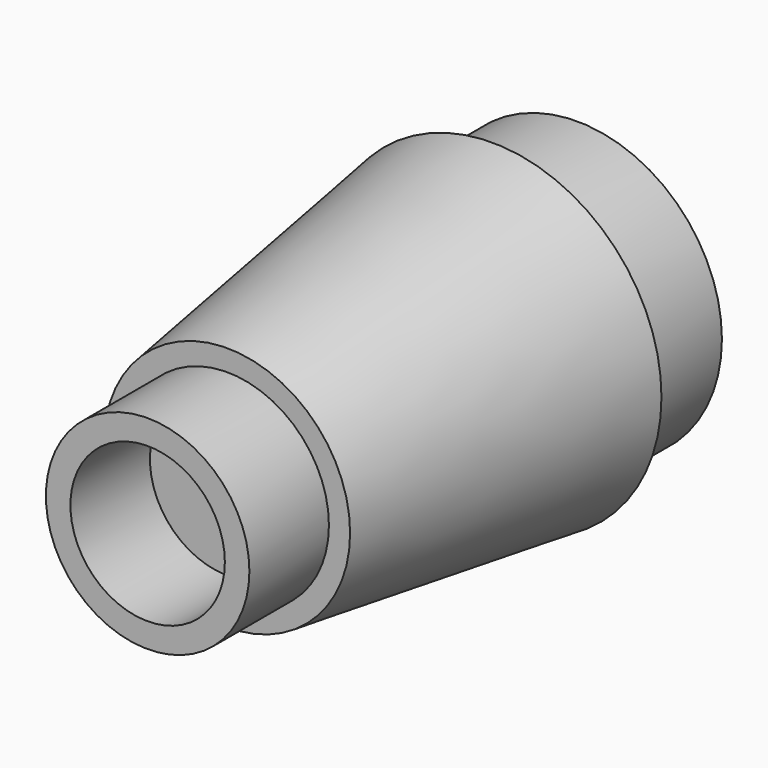
from build123d import *

# Parameters (mm, degrees)
F0_R       = 3.81
F1_DEPTH   = 7.47
F1_FACE1_R = 3.81
F2_R       = 2.77
F4_R       = 3.26
F4_R_2     = 2.49594432
F5_DEPTH   = 2.39
F6_R       = 2.2927604411
F6_R_2     = 1.74
F7_DEPTH   = 2.24


with BuildPart() as f1:
    # F0 (on Front) → F1 (new body)
    with BuildSketch(Plane.XZ):
        with Locations((8.5885077715, 15.9878358245)):
            Circle(F0_R)
    extrude(amount=F1_DEPTH)

    # F1_face1 (on face) → F3 section 0
    with BuildSketch(Plane(origin=(8.5885077715, 0, 15.9878358245), x_dir=(1, 0, 0), z_dir=(0, 1, 0))):
        Circle(F1_FACE1_R)
    # F2 (on face) → F3 section 1
    with BuildSketch(Plane.XZ.offset(7.47)):
        with Locations((8.5885077715, 15.9878358245)):
            Circle(F2_R)
    loft(mode=Mode.INTERSECT)

    # F6 (on face) → F7 (join)
    with BuildSketch(Plane.XZ.offset(7.47)):
        with Locations((8.5885077715, 15.9878358245)):
            Circle(F6_R)
        with Locations((8.5885077715, 15.9878358245)):
            Circle(F6_R_2, mode=Mode.SUBTRACT)
    extrude(amount=F7_DEPTH)


with BuildPart() as f5:
    # F4 (on face) → F5 (new body)
    with BuildSketch(Plane(origin=(0, 0, 0), x_dir=(-1, 0, 0), z_dir=(0, 1, 0))):
        with Locations((-8.5885077715, 15.9878358245)):
            Circle(F4_R)
        with Locations((-8.5885077715, 15.9878358245)):
            Circle(F4_R_2, mode=Mode.SUBTRACT)
    extrude(amount=F5_DEPTH)


solid = Compound([f1.part, f5.part])
